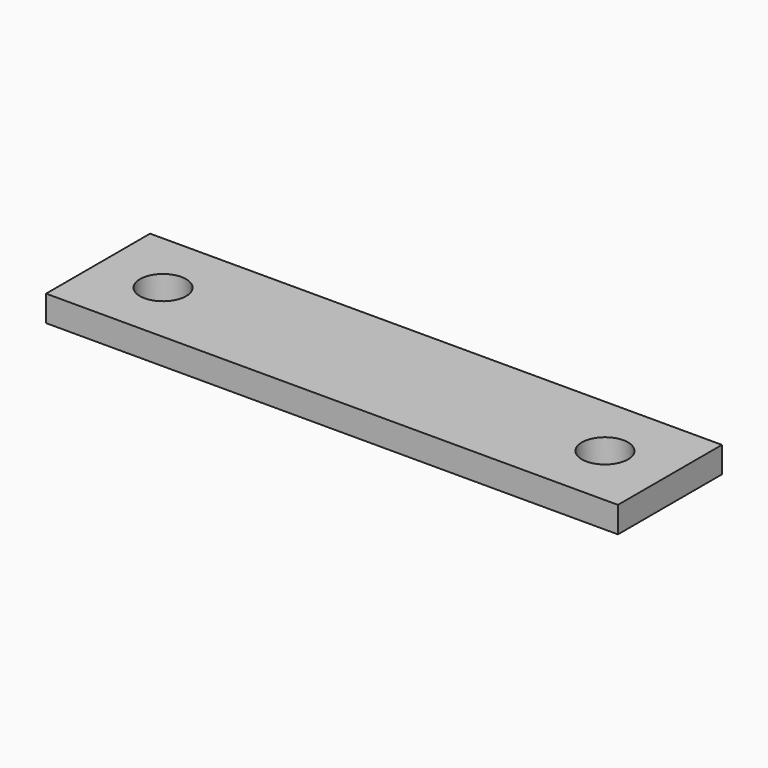
from build123d import *

# Parameters (mm, degrees)
F0_W     = 34.925
F0_H     = 1.5875
F1_DEPTH = 7.9375
F2_R     = 1.4097
F3_DEPTH = 1.5875


with BuildPart() as f1:
    # F0 (on Front) → F1 (new body)
    with BuildSketch(Plane.XZ):
        with Locations((27.560851, 10.8921)):
            Rectangle(F0_W, F0_H)
    extrude(amount=F1_DEPTH)

    # F2 (on face) → F3 (cut)
    with BuildSketch(Plane.XY.offset(11.68585)):
        with Locations((14.067101, -3.96875)):
            Circle(F2_R)
        with Locations((41.054601, -3.96875)):
            Circle(F2_R)
    extrude(amount=-F3_DEPTH, mode=Mode.SUBTRACT)


solid = f1.part
